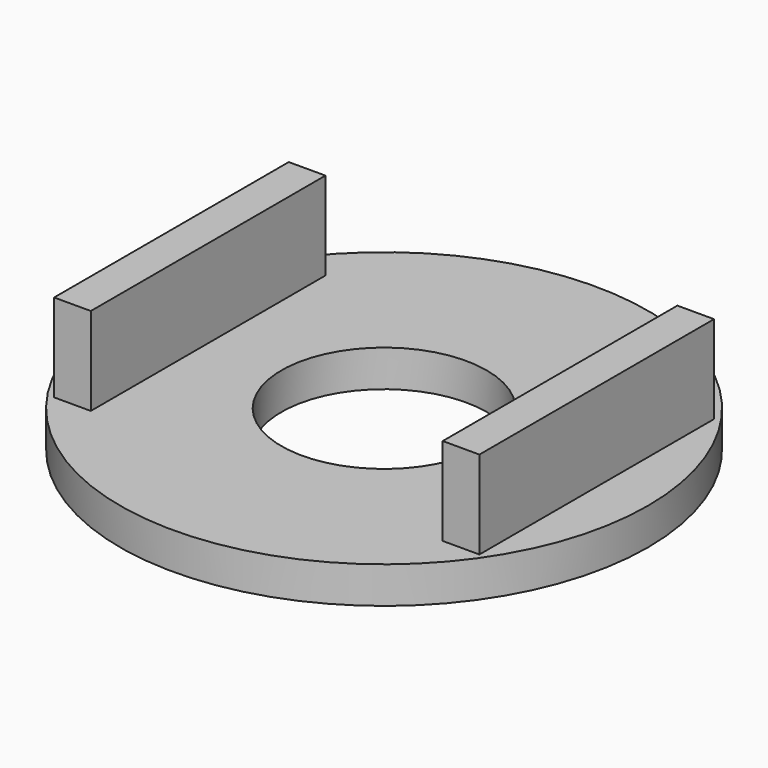
from build123d import *

# Parameters (mm, degrees)
F0_R     = 45.72
F0_R_2   = 17.78
F1_DEPTH = 6.35
F2_W     = 6.35
F2_H     = 50.8
F3_DEPTH = 15.24


with BuildPart() as f1:
    # F0 (on Top) → F1 (new body)
    with BuildSketch(Plane.XY):
        Circle(F0_R)
        Circle(F0_R_2, mode=Mode.SUBTRACT)
    extrude(amount=F1_DEPTH)

    # F2 (on face) → F3 (join)
    with BuildSketch(Plane.XY.offset(6.35)):
        with Locations((-33.655, 0)):
            Rectangle(F2_W, F2_H)
        with Locations((33.655, 0)):
            Rectangle(F2_W, F2_H)
    extrude(amount=F3_DEPTH)


solid = f1.part
